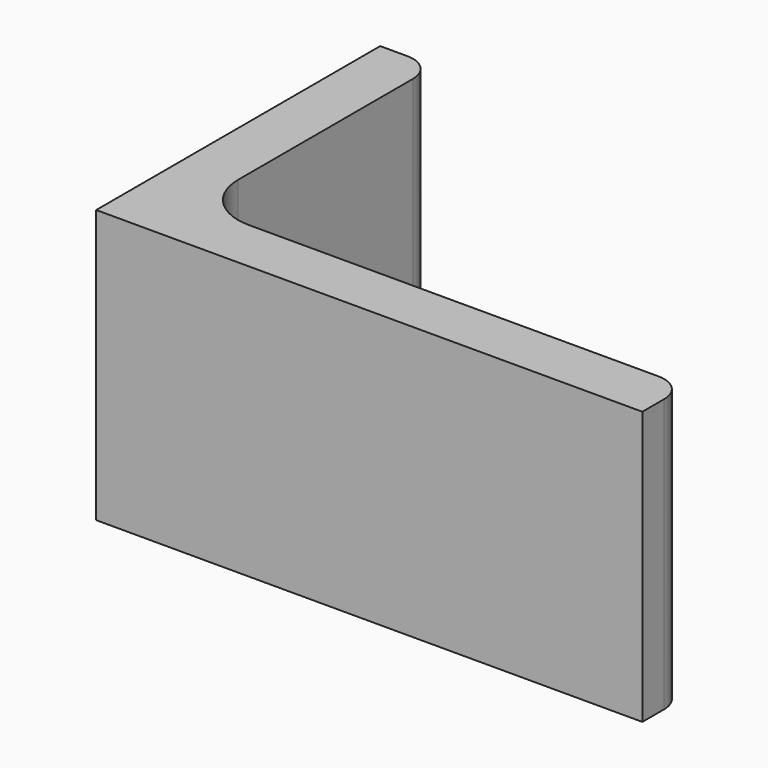
from build123d import *

# Parameters (mm, degrees)
EXTRUDE_DEPTH = 50


with BuildPart() as part:
    # Sketch → Extrude (new body)
    with BuildSketch(Plane.XY):
        with BuildLine():
            Line((0, 0), (100, 0))
            Line((100, 0), (100, 5))
            ThreePointArc((100, 5), (98.535534, 8.535534), (95, 10))
            Line((95, 10), (20, 10))
            ThreePointArc((10, 20), (12.928932, 12.928932), (20, 10))
            Line((10, 60), (10, 20))
            ThreePointArc((10, 60), (8.535534, 63.535534), (5, 65))
            Line((0, 65), (5, 65))
            Line((0, 0), (0, 65))
        make_face()
    extrude(amount=EXTRUDE_DEPTH)


solid = part.part
